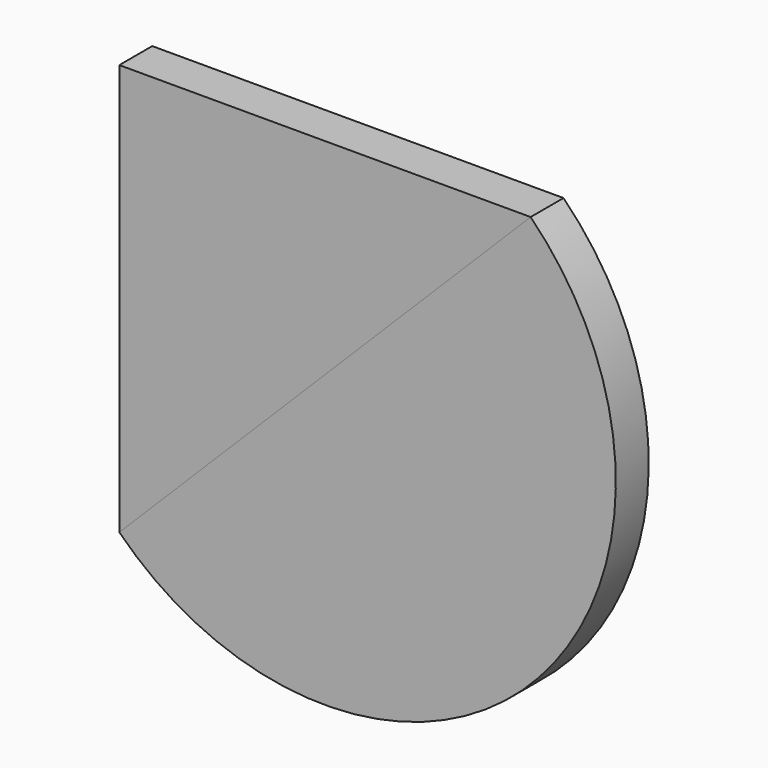
from build123d import *

# Parameters (mm, degrees)
F1_DEPTH = 25.4
F2_DEPTH = 25.4


with BuildPart() as f1:
    # F0 (on Front) → F1 (new body)
    with BuildSketch(Plane.XZ):
        Polygon((-127, -127), (127, 127), (-127, 127), align=None)
    extrude(amount=F1_DEPTH)


with BuildPart() as f2:
    # F0 (on Front) → F2 (new body)
    with BuildSketch(Plane.XZ):
        with BuildLine():
            ThreePointArc((-127, -127), (127, -127), (127, 127))
            Line((127, 127), (-127, -127))
        make_face()
    extrude(amount=F2_DEPTH)


solid = Compound([f1.part, f2.part])
